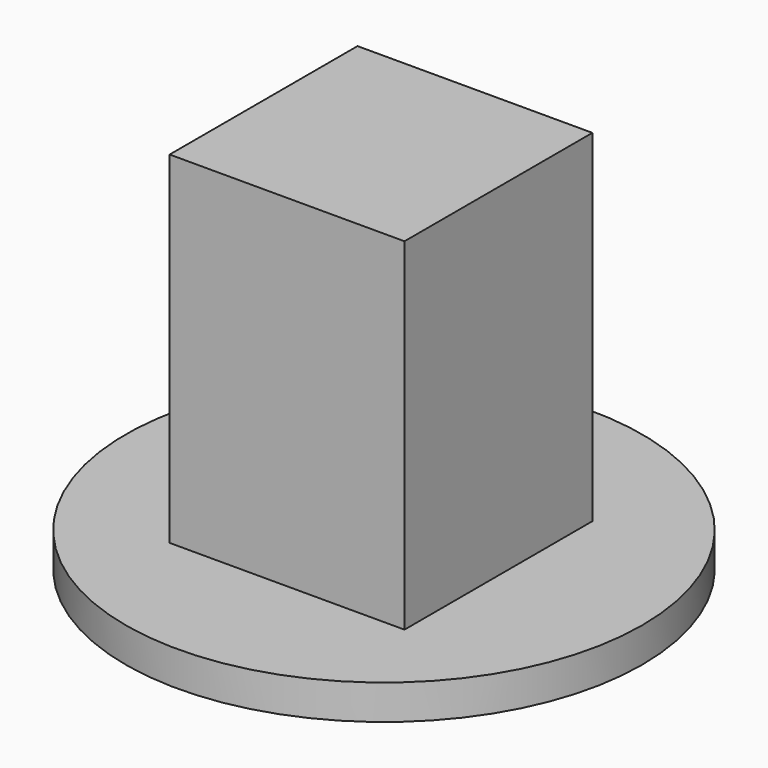
from build123d import *

# Parameters (mm, degrees)
F1_W     = 25
F1_H     = 25
F2_DEPTH = 40.1
F0_R     = 27.5
F3_DEPTH = 3.7


with BuildPart() as f2:
    # F1 (on Top) → F2 (new body)
    with BuildSketch(Plane.XY):
        with Locations((0.060096, -0.468747)):
            Rectangle(F1_W, F1_H)
    extrude(amount=F2_DEPTH)

    # F0 (on Top) → F3 (join)
    with BuildSketch(Plane.XY):
        Circle(F0_R)
    extrude(amount=F3_DEPTH)


solid = f2.part
